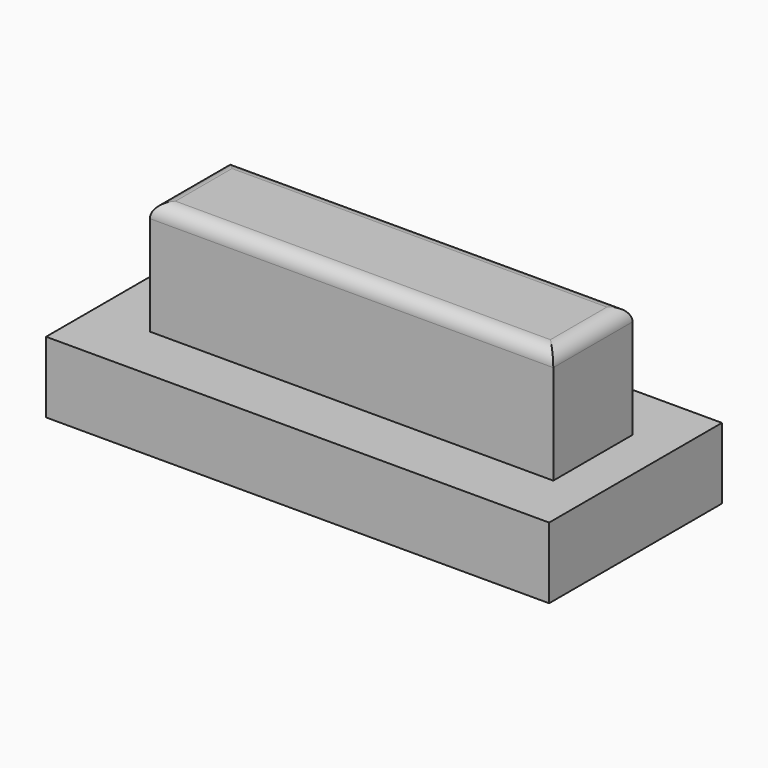
from build123d import *

# Parameters (mm, degrees)
F0_W     = 177.00053
F0_H     = 75.980723
F1_DEPTH = 25
F2_W     = 141.91997
F2_H     = 34.842628
F3_DEPTH = 40
F4_R     = 5


with BuildPart() as f1:
    # F0 (on Top) → F1 (new body)
    with BuildSketch(Plane.XY):
        with Locations((1.726832, -3.02196)):
            Rectangle(F0_W, F0_H)
    extrude(amount=F1_DEPTH)

    # F2 (on face) → F3 (join)
    with BuildSketch(Plane.XY.offset(25)):
        with Locations((4.559569, -3.399281)):
            Rectangle(F2_W, F2_H)
    extrude(amount=F3_DEPTH)

    # F4
    f4_edges = [f1.edges().sort_by_distance(p)[0] for p in [
        (4.559569, -20.820595, 65),
        (-66.400416, -3.399281, 65),
        (4.559569, 14.022033, 65),
        (75.519554, -3.399281, 65),
    ]]
    fillet(f4_edges, radius=F4_R)


solid = f1.part
